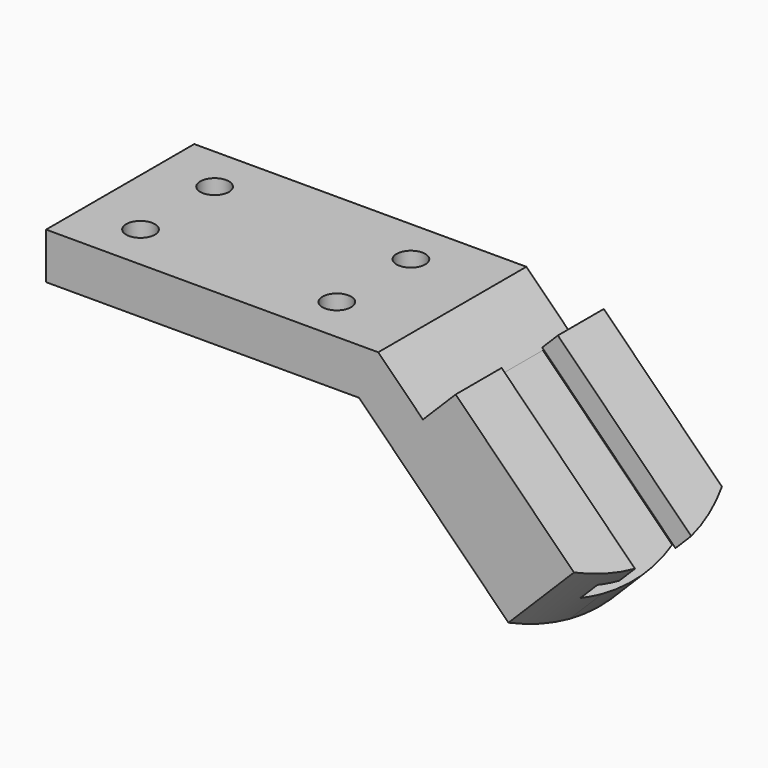
from build123d import *

# Parameters (mm, degrees)
F1_DEPTH = 25.4
F2_R     = 6.35
F3_DEPTH = 6.35
F4_R     = 3.937
F5_DEPTH = 25.4
F7_DEPTH = 52.7686600304
F9_DEPTH = 25.4


with BuildPart() as f1:
    # F0 (on Front) → F1 (new body, symmetric)
    with BuildSketch(Plane.XZ):
        Polygon((-85.852, 12.7), (-85.852, 0), (0, 0), (45.8512699094, -45.8512699094), (54.8315260304, -36.8710137883), (17.5184486888, 0.4420635534), (5.2605122421, 12.7), align=None)
        Polygon((26.4987048099, 9.4223196744), (17.5184486888, 0.4420635534), (54.8315260304, -36.8710137883), (63.8117821515, -27.8907576672), align=None)
    extrude(amount=F1_DEPTH, both=True)

    # F2 (on face) → F3 (cut)
    with BuildSketch(Plane(origin=(0, 0, 0), x_dir=(1, 0, 0), z_dir=(0, 0, -1))):
        with Locations((-70.104, 12.7)):
            Circle(F2_R)
        with Locations((-16.256, 12.7)):
            Circle(F2_R)
        with Locations((-16.256, -12.7)):
            Circle(F2_R)
        with Locations((-70.104, -12.7)):
            Circle(F2_R)
    extrude(amount=-F3_DEPTH, mode=Mode.SUBTRACT)

    # F4 (on face) → F5 (cut)
    with BuildSketch(Plane(origin=(0, 0, 0), x_dir=(1, 0, 0), z_dir=(0, 0, -1))):
        with Locations((-16.256, -12.7)):
            Circle(F4_R)
        with Locations((-16.256, 12.7)):
            Circle(F4_R)
        with Locations((-70.104, 12.7)):
            Circle(F4_R)
        with Locations((-70.104, -12.7)):
            Circle(F4_R)
    extrude(amount=-F5_DEPTH, mode=Mode.SUBTRACT)

    # F6 (on face) → F7 (cut, through all)
    with BuildSketch(Plane(origin=(45.8512699094, 0, -45.8512699094), x_dir=(0, 1, 0), z_dir=(0.7071067812, 0, -0.7071067812))):
        Polygon((9.652, 25.4), (-9.652, 25.4), (-9.652, 19.304), (-15.748, 19.304), (-15.748, 12.7), (15.748, 12.7), (15.748, 19.304), (9.652, 19.304), align=None)
    extrude(amount=-F7_DEPTH, mode=Mode.SUBTRACT)

    # F8 (on face) → F9 (cut, through all)
    with BuildSketch(Plane(origin=(17.9605122421, 0, 17.9605122421), x_dir=(0, 1, 0), z_dir=(0.7071067812, 0, 0.7071067812))):
        with BuildLine():
            ThreePointArc((-9.652, -63.8151974917), (-17.7699630745, -61.5408606446), (-25.4, -57.9552687705))
            Line((-25.4, -57.9552687705), (-25.4, -64.8434877579))
            Line((-25.4, -64.8434877579), (-9.652, -64.8434877579))
            Line((-9.652, -64.8434877579), (-9.652, -63.8151974917))
        make_face()
        with BuildLine():
            ThreePointArc((25.4, -57.89321661), (8.408914861, -64.0203496104), (-9.652, -63.8151974917))
            Line((-9.652, -63.8151974917), (-9.652, -64.8434877579))
            Line((-9.652, -64.8434877579), (1.0093030718, -64.8434877579))
            Line((1.0093030718, -64.8434877579), (25.4, -64.8434877579))
            Line((25.4, -64.8434877579), (25.4, -57.89321661))
        make_face()
    extrude(amount=-F9_DEPTH, mode=Mode.SUBTRACT)


solid = f1.part
